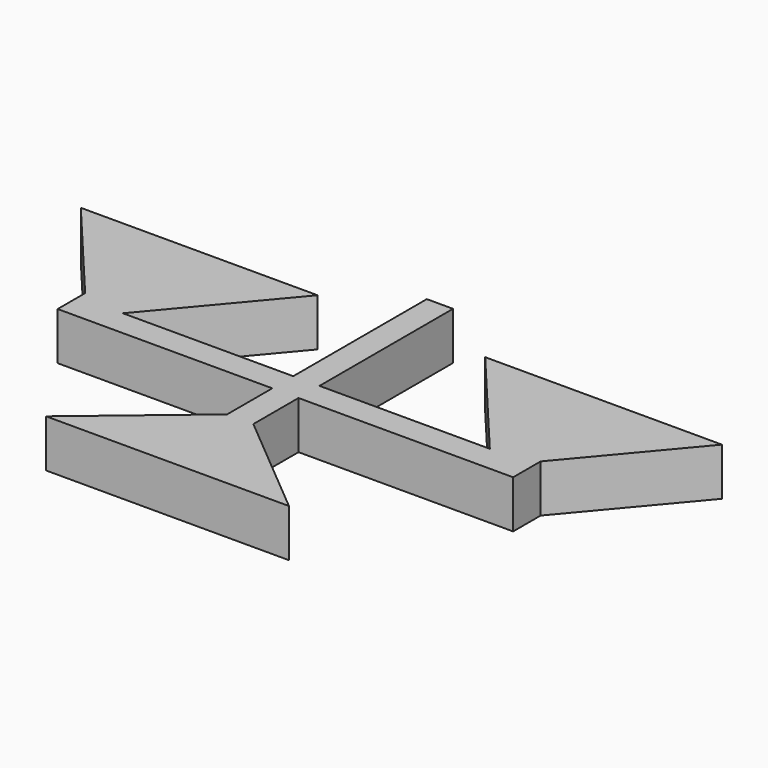
from build123d import *

# Parameters (mm, degrees)
F1_DEPTH = 2


with BuildPart() as f1:
    # F0 (on Top) → F1 (new body)
    with BuildSketch(Plane.XY):
        Polygon((-9.55, 0.090993), (-9.55, -1.35), (-0.55, -1.35), (-0.55, -3.716577), (-5.09242, -7.528119), (0, -7.528119), (5.09242, -7.528119), (0.55, -3.716577), (0.55, -1.35), (9.55, -1.35), (9.55, 0.090993), (13.441993, 4.729289), (3.514246, 4.729289), (7.692366, -0.25), (0.55, -0.25), (0.55, 6.75), (0, 6.75), (-0.55, 6.75), (-0.55, -0.25), (-7.692366, -0.25), (-3.514246, 4.729289), (-13.441993, 4.729289), align=None)
    extrude(amount=F1_DEPTH)


solid = f1.part
